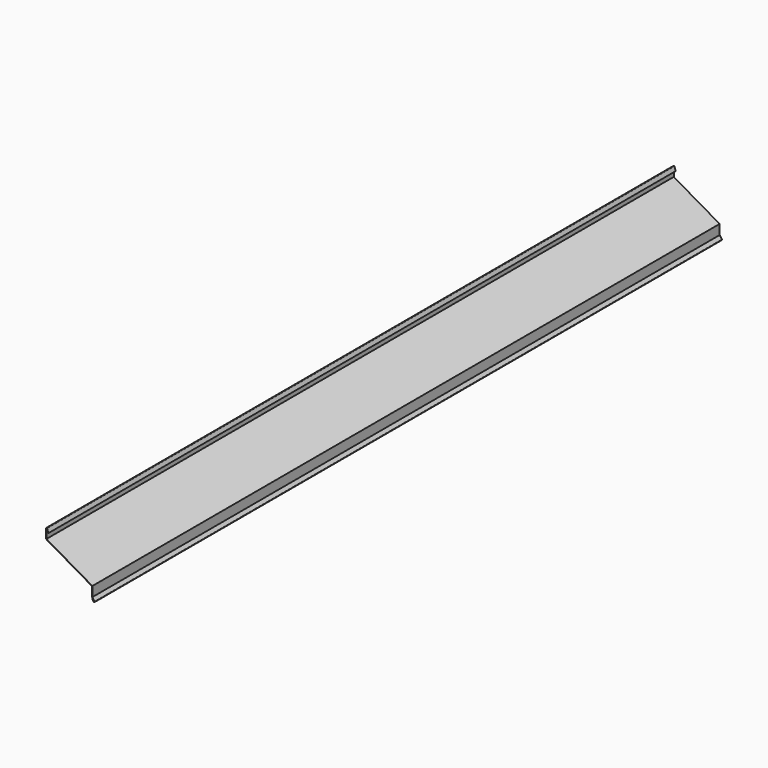
from build123d import *

# Parameters (mm, degrees)
F1_DEPTH = 2000


with BuildPart() as f1:
    # F0 (on Front) → F1 (new body)
    with BuildSketch(Plane.XZ):
        with BuildLine():
            Line((0, -25), (0, -1.3))
            ThreePointArc((0, -1.3), (0.247343, -1.004657), (0.581515, -1.19632))
            Line((0.581515, -1.19632), (4.061618, -10.6456))
            Line((4.061618, -10.6456), (5, -10.3))
            Line((5, -10.3), (1.519897, -0.850721))
            ThreePointArc((1.519897, -0.850721), (0.071818, -0.020182), (-1, -1.3))
            Line((-1, -1.3), (-1, -25.57735))
            Line((-1, -25.57735), (116, -93.127332))
            Line((116, -93.127332), (116, -117.86528))
            Line((116, -117.86528), (121.750544, -126.077909))
            ThreePointArc((121.750544, -126.077909), (121.676872, -126.495727), (121.259053, -126.422054))
            Line((121.259053, -126.422054), (117.416091, -120.933736))
            Line((117.416091, -120.933736), (116.596939, -121.507312))
            Line((116.596939, -121.507312), (120.439901, -126.995631))
            ThreePointArc((120.439901, -126.995631), (122.250448, -127.314879), (122.569696, -125.504332))
            Line((122.569696, -125.504332), (117, -117.549981))
            Line((117, -117.549981), (117, -92.549981))
            Line((117, -92.549981), (0, -25))
        make_face()
    extrude(amount=F1_DEPTH)


solid = f1.part
